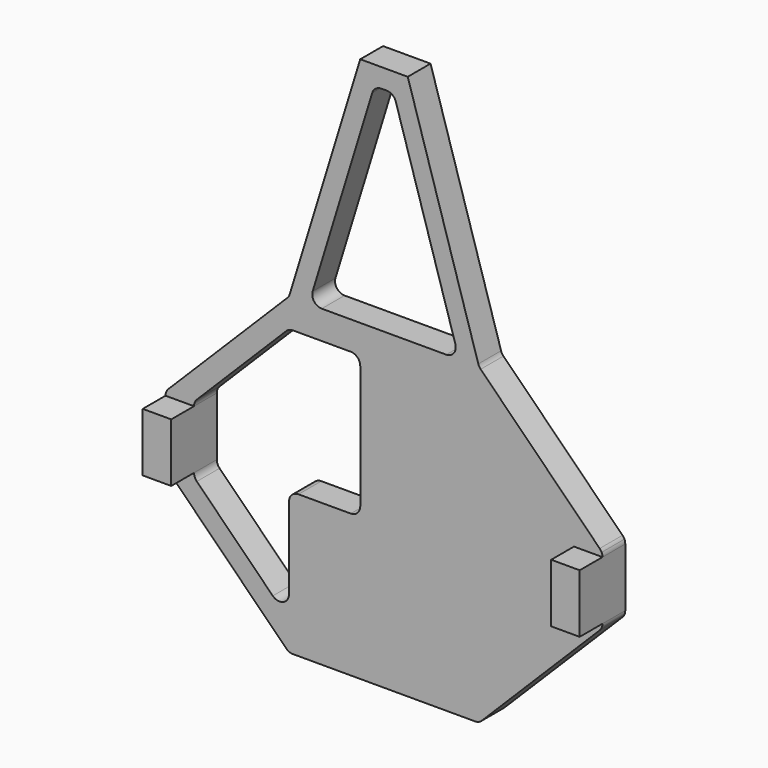
from build123d import *

# Parameters (mm, degrees)
F1_DEPTH = 30
F0_W     = 30
F0_H     = 61.715728
F2_DEPTH = 60


with BuildPart() as f1:
    # F0 (on Front) → F1 (new body)
    with BuildSketch(Plane.XZ):
        with BuildLine():
            Line((-168.30257, -116.075176), (-168.30257, -201.93304))
            ThreePointArc((-168.30257, -201.93304), (-174.475736, -211.171836), (-185.373638, -209.004108))
            Line((-185.373638, -209.004108), (-265.373638, -129.004108))
            ThreePointArc((-265.373638, -129.004108), (-267.541366, -125.759875), (-268.30257, -121.93304))
            Line((-268.30257, -121.93304), (-298.30257, -121.93304))
            ThreePointArc((-298.30257, -121.93304), (-298.07544, -124.052242), (-297.404367, -126.075176))
            ThreePointArc((-297.404367, -126.075176), (-296.520542, -127.630843), (-295.373638, -129.004108))
            Line((-295.373638, -129.004108), (-171.231502, -253.146244))
            ThreePointArc((-171.231502, -253.146244), (-167.987269, -255.313971), (-164.160435, -256.075176))
            Line((-164.160435, -256.075176), (27.555294, -256.075176))
            ThreePointArc((27.555294, -256.075176), (31.382128, -255.313971), (34.626362, -253.146244))
            Line((34.626362, -253.146244), (158.768498, -129.004108))
            ThreePointArc((158.768498, -129.004108), (159.915401, -127.630843), (160.799227, -126.075176))
            ThreePointArc((160.799227, -126.075176), (161.4703, -124.052242), (161.69743, -121.93304))
            Line((161.69743, -121.93304), (131.69743, -121.93304))
            Line((131.69743, -121.93304), (131.69743, -60.217312))
            Line((131.69743, -60.217312), (161.69743, -60.217312))
            ThreePointArc((161.69743, -60.217312), (161.4703, -58.09811), (160.799227, -56.075176))
            ThreePointArc((160.799227, -56.075176), (159.915401, -54.51951), (158.768498, -53.146244))
            Line((158.768498, -53.146244), (33.456261, 72.165993))
            ThreePointArc((33.456261, 72.165993), (31.958527, 74.081905), (30.967545, 76.302689))
            Line((30.967545, 76.302689), (-43.30257, 318.264572))
            Line((-43.30257, 318.264572), (-93.30257, 318.264572))
            Line((-93.30257, 318.264572), (-167.572686, 76.302689))
            ThreePointArc((-167.572686, 76.302689), (-168.563667, 74.081905), (-170.061401, 72.165993))
            Line((-170.061401, 72.165993), (-295.373638, -53.146244))
            ThreePointArc((-295.373638, -53.146244), (-296.520542, -54.51951), (-297.404367, -56.075176))
            ThreePointArc((-297.404367, -56.075176), (-298.07544, -58.09811), (-298.30257, -60.217312))
            Line((-298.30257, -60.217312), (-268.30257, -60.217312))
            ThreePointArc((-268.30257, -60.217312), (-267.541366, -56.390477), (-265.373638, -53.146244))
            Line((-265.373638, -53.146244), (-171.231502, 40.995892))
            ThreePointArc((-171.231502, 40.995892), (-167.987269, 43.163619), (-164.160435, 43.924824))
            Line((-164.160435, 43.924824), (-103.30257, 43.924824))
            ThreePointArc((-103.30257, 43.924824), (-96.231502, 40.995892), (-93.30257, 33.924824))
            Line((-93.30257, 33.924824), (-93.30257, -96.075176))
            ThreePointArc((-93.30257, -96.075176), (-96.231502, -103.146244), (-103.30257, -106.075176))
            Line((-103.30257, -106.075176), (-158.30257, -106.075176))
            ThreePointArc((-158.30257, -106.075176), (-165.373638, -109.004108), (-168.30257, -116.075176))
        make_face()
        with BuildLine():
            Line((-2.753531, 73.924824), (-133.85161, 73.924824))
            ThreePointArc((-133.85161, 73.924824), (-141.893492, 77.981076), (-143.411393, 86.859196))
            Line((-143.411393, 86.859196), (-80.689379, 291.198944))
            ThreePointArc((-80.689379, 291.198944), (-77.073344, 296.306453), (-71.129596, 298.264572))
            Line((-71.129596, 298.264572), (-65.475545, 298.264572))
            ThreePointArc((-65.475545, 298.264572), (-59.531797, 296.306453), (-55.915761, 291.198944))
            Line((-55.915761, 291.198944), (6.806253, 86.859196))
            ThreePointArc((6.806253, 86.859196), (5.288351, 77.981076), (-2.753531, 73.924824))
        make_face(mode=Mode.SUBTRACT)
    extrude(amount=F1_DEPTH)

    # F0 (on Front) → F2 (join)
    with BuildSketch(Plane.XZ):
        with Locations((-283.30257, -91.075176)):
            Rectangle(F0_W, F0_H)
        with Locations((146.69743, -91.075176)):
            Rectangle(F0_W, F0_H)
    extrude(amount=F2_DEPTH)


solid = f1.part
